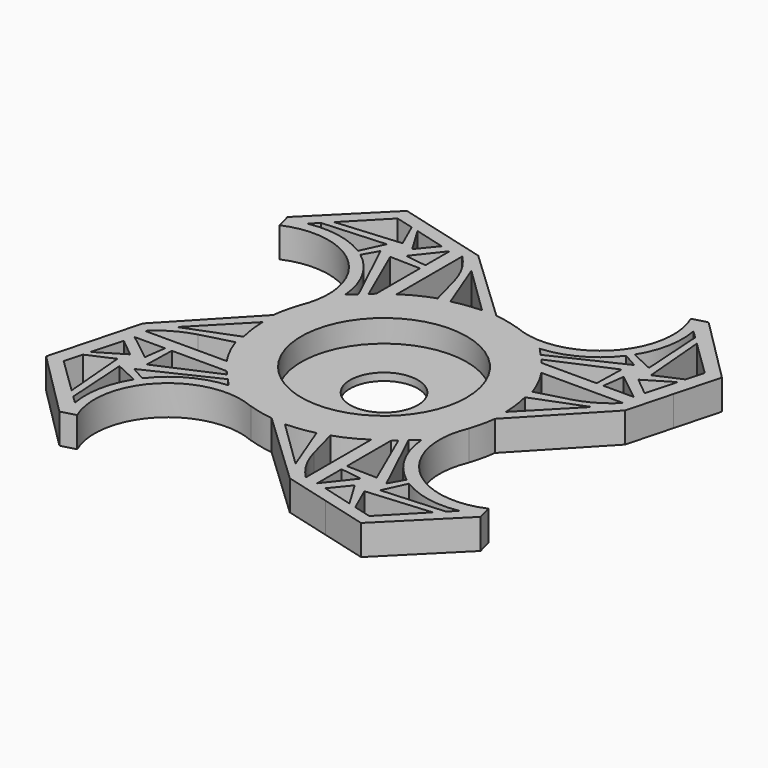
from build123d import *

# Parameters (mm, degrees)
F0_R      = 16.399283469
F1_DEPTH  = 4
F2_W      = 15.3047693893
F2_H      = 15.304771252
F2_W_2    = 15.304768458
F3_DEPTH  = 4
F4_D      = 19.5
F6_DEPTH  = 4.001
F9_R      = 11.0138884446
F10_DEPTH = 4
F12_DEPTH = 1
F11_R     = 4.5084402741
F13_DEPTH = 1


with BuildPart() as f1:
    # F0 (on Top) → F1 (new body)
    with BuildSketch(Plane.XY):
        Circle(F0_R)
    extrude(amount=F1_DEPTH)

    # F2 (on Top) → F3 (join)
    with BuildSketch(Plane.XY):
        with BuildLine():
            ThreePointArc((-19.6362166313, 6.381895291), (-14.0342818631, 6.3818949246), (-9.1828638688, 9.1828620061))
            Line((-9.1828638688, 9.1828620061), (-24.4876332581, 9.1828620061))
            ThreePointArc((-24.4876332581, 9.1828620061), (-22.246302031, 7.4630281695), (-19.6362166313, 6.381895291))
        make_face()
        with Locations((-16.8352485634, 16.8352476321)):
            Rectangle(F2_W, F2_H)
        with BuildLine():
            Line((-13.6009707699, 4.7647556427), (-9.1828638688, 9.1828620061))
            ThreePointArc((-9.1828638688, 9.1828620061), (-14.0342818631, 6.3818949246), (-19.6362166313, 6.381895291))
            Line((-19.6362166313, 6.381895291), (-13.6009707699, 4.7647556427))
        make_face()
        Polygon((-4.7647569677, 13.6009683695), (-9.1828638688, 9.1828620061), (-13.6009707699, 4.7647556427), (-13.6009707699, -4.7647556427), (-9.1828638688, -9.1828620061), (-4.7647569677, -13.6009683695), (4.7647560363, -13.6009681007), (9.1828629375, -9.1828620061), (13.6009698386, -4.7647559116), (13.6009698386, 4.7647559116), (9.1828629375, 9.1828620061), (4.7647560363, 13.6009681007), align=None)
        with BuildLine():
            ThreePointArc((-27.2886012692, 14.0342809252), (-26.207468049, 11.4241942043), (-24.4876332581, 9.1828620061))
            Line((-24.4876332581, 9.1828620061), (-24.4876332581, 24.4876332581))
            ThreePointArc((-24.4876332581, 24.4876332581), (-27.2886009182, 19.6362156491), (-27.2886012692, 14.0342809252))
        make_face()
        with BuildLine():
            ThreePointArc((-19.6362166313, 6.381895291), (-22.246302031, 7.4630281695), (-24.4876332581, 9.1828620061))
            ThreePointArc((-24.4876332581, 9.1828620061), (-26.207468049, 11.4241942043), (-27.2886012692, 14.0342809252))
            Line((-27.2886012692, 14.0342809252), (-25.6714623657, 7.9990349053))
            Line((-25.6714623657, 7.9990349053), (-19.6362166313, 6.381895291))
        make_face()
        with BuildLine():
            ThreePointArc((-14.0342803558, 27.2885999358), (-11.4241950332, 26.2074670585), (-9.1828638688, 24.4876332581))
            ThreePointArc((-9.1828638688, 24.4876332581), (-7.4630290902, 22.2463010813), (-6.3818958705, 19.6362143867))
            Line((-6.3818958705, 19.6362143867), (-7.9990347612, 25.6714603589))
            Line((-7.9990347612, 25.6714603589), (-14.0342803558, 27.2885999358))
        make_face()
        with BuildLine():
            Line((-24.4876332581, 24.4876332581), (-9.1828638688, 24.4876332581))
            ThreePointArc((-9.1828638688, 24.4876332581), (-11.4241950332, 26.2074670585), (-14.0342803558, 27.2885999358))
            ThreePointArc((-14.0342803558, 27.2885999358), (-19.6362151939, 27.2886003583), (-24.4876332581, 24.4876332581))
        make_face()
        Polygon((-6.3818958705, 19.6362143867), (-4.7647569677, 13.6009683695), (4.7647560363, 13.6009681007), (-7.9990347612, 25.6714603589), align=None)
        Polygon((-13.6009707699, -4.7647556427), (-13.6009707699, 4.7647556427), (-25.6714623657, -7.9990349053), (-19.6362163995, -6.3818952289), align=None)
        with BuildLine():
            Line((-20.069526357, 28.9057396215), (-24.4876332581, 24.4876332581))
            ThreePointArc((-24.4876332581, 24.4876332581), (-19.6362151939, 27.2886003583), (-14.0342803558, 27.2885999358))
            Line((-14.0342803558, 27.2885999358), (-20.069526357, 28.9057396215))
        make_face()
        with BuildLine():
            ThreePointArc((-27.2886012692, 14.0342809252), (-27.2886009182, 19.6362156491), (-24.4876332581, 24.4876332581))
            Line((-24.4876332581, 24.4876332581), (-28.9057401592, 20.0695268947))
            Line((-28.9057401592, 20.0695268947), (-27.2886012692, 14.0342809252))
        make_face()
        with BuildLine():
            Line((6.3818947404, 19.6362141105), (4.7647560363, 13.6009681007))
            Line((4.7647560363, 13.6009681007), (9.1828629375, 9.1828620061))
            ThreePointArc((9.1828629375, 9.1828620061), (6.3818951916, 14.0342794697), (6.3818947404, 19.6362141105))
        make_face()
        with BuildLine():
            Line((-19.6362163995, -6.3818952289), (-25.6714623657, -7.9990349053))
            Line((-25.6714623657, -7.9990349053), (-27.2886013071, -14.0342810666))
            ThreePointArc((-27.2886013071, -14.0342810666), (-26.2074680856, -11.4241942677), (-24.4876332581, -9.1828620061))
            ThreePointArc((-24.4876332581, -9.1828620061), (-22.2463019271, -7.4630281095), (-19.6362163995, -6.3818952289))
        make_face()
        with Locations((16.8352471665, 16.8352476321)):
            Rectangle(F2_W_2, F2_H)
        with BuildLine():
            ThreePointArc((6.3818947404, 19.6362141105), (6.3818951916, 14.0342794697), (9.1828629375, 9.1828620061))
            Line((9.1828629375, 9.1828620061), (9.1828629375, 24.4876332581))
            ThreePointArc((9.1828629375, 24.4876332581), (7.4630280113, 22.2463009736), (6.3818947404, 19.6362141105))
        make_face()
        with BuildLine():
            Line((7.9990333642, 25.6714598212), (6.3818947404, 19.6362141105))
            ThreePointArc((6.3818947404, 19.6362141105), (7.4630280113, 22.2463009736), (9.1828629375, 24.4876332581))
            ThreePointArc((9.1828629375, 24.4876332581), (11.4241937617, 26.2074667508), (14.0342786387, 27.2885995091))
            Line((14.0342786387, 27.2885995091), (7.9990333642, 25.6714598212))
        make_face()
        with BuildLine():
            ThreePointArc((-24.4876332581, -9.1828620061), (-26.2074680856, -11.4241942677), (-27.2886013071, -14.0342810666))
            ThreePointArc((-27.2886013071, -14.0342810666), (-27.2886008992, -19.6362157198), (-24.4876332581, -24.4876332581))
            Line((-24.4876332581, -24.4876332581), (-24.4876332581, -9.1828620061))
        make_face()
        with BuildLine():
            ThreePointArc((-24.4876332581, -24.4876332581), (-27.2886008992, -19.6362157198), (-27.2886013071, -14.0342810666))
            Line((-27.2886013071, -14.0342810666), (-28.9057401592, -20.0695268947))
            Line((-28.9057401592, -20.0695268947), (-24.4876332581, -24.4876332581))
        make_face()
        with Locations((-16.8352485634, -16.8352476321)):
            Rectangle(F2_W, F2_H)
        with BuildLine():
            ThreePointArc((-6.0131416852, -16.8352476321), (-6.836925646, -12.6938063223), (-9.1828638688, -9.1828620061))
            Line((-9.1828638688, -9.1828620061), (-9.1828638688, -24.4876332581))
            ThreePointArc((-9.1828638688, -24.4876332581), (-7.4630291005, -22.2463010991), (-6.3818958811, -19.6362144264))
            ThreePointArc((-6.3818958811, -19.6362144264), (-6.105726271, -18.2478157402), (-6.0131416852, -16.8352476321))
        make_face()
        with BuildLine():
            Line((-4.7647569677, -13.6009683695), (-9.1828638688, -9.1828620061))
            ThreePointArc((-9.1828638688, -9.1828620061), (-6.836925646, -12.6938063223), (-6.0131416852, -16.8352476321))
            ThreePointArc((-6.0131416852, -16.8352476321), (-6.105726271, -18.2478157402), (-6.3818958811, -19.6362144264))
            Line((-6.3818958811, -19.6362144264), (-4.7647569677, -13.6009683695))
        make_face()
        with BuildLine():
            ThreePointArc((27.2885996773, 14.0342814699), (26.2074664034, 11.4241944323), (24.4876313955, 9.1828620061))
            ThreePointArc((24.4876313955, 9.1828620061), (22.2463003661, 7.463028395), (19.6362152367, 6.3818956326))
            Line((19.6362152367, 6.3818956326), (25.6714609687, 7.999035443))
            Line((25.6714609687, 7.999035443), (27.2885996773, 14.0342814699))
        make_face()
        with BuildLine():
            Line((24.4876313955, 24.4876332581), (24.4876313955, 9.1828620061))
            ThreePointArc((24.4876313955, 9.1828620061), (26.2074664034, 11.4241944323), (27.2885996773, 14.0342814699))
            ThreePointArc((27.2885996773, 14.0342814699), (27.5647691694, 15.4226798477), (27.6573537154, 16.8352476321))
            ThreePointArc((27.6573537154, 16.8352476321), (26.8335697167, 20.976688968), (24.4876313955, 24.4876332581))
        make_face()
        with BuildLine():
            ThreePointArc((14.0342786387, 27.2885995091), (11.4241937617, 26.2074667508), (9.1828629375, 24.4876332581))
            Line((9.1828629375, 24.4876332581), (24.4876313955, 24.4876332581))
            ThreePointArc((24.4876313955, 24.4876332581), (19.63621335, 27.2886001372), (14.0342786387, 27.2885995091))
        make_face()
        Polygon((25.6714609687, 7.999035443), (19.6362152367, 6.3818956326), (13.6009698386, 4.7647559116), (13.6009698386, -4.7647559116), align=None)
        with BuildLine():
            Line((-9.1828638688, -24.4876332581), (-24.4876332581, -24.4876332581))
            ThreePointArc((-24.4876332581, -24.4876332581), (-19.6362150795, -27.288600389), (-14.0342801271, -27.2885998745))
            ThreePointArc((-14.0342801271, -27.2885998745), (-11.4241949306, -26.2074669993), (-9.1828638688, -24.4876332581))
        make_face()
        with BuildLine():
            ThreePointArc((-14.0342801271, -27.2885998745), (-19.6362150795, -27.288600389), (-24.4876332581, -24.4876332581))
            Line((-24.4876332581, -24.4876332581), (-20.069526357, -28.9057396215))
            Line((-20.069526357, -28.9057396215), (-14.0342801271, -27.2885998745))
        make_face()
        with BuildLine():
            ThreePointArc((-6.3818958811, -19.6362144264), (-7.4630291005, -22.2463010991), (-9.1828638688, -24.4876332581))
            ThreePointArc((-9.1828638688, -24.4876332581), (-11.4241949306, -26.2074669993), (-14.0342801271, -27.2885998745))
            Line((-14.0342801271, -27.2885998745), (-7.9990347612, -25.6714603589))
            Line((-7.9990347612, -25.6714603589), (-6.3818958811, -19.6362144264))
        make_face()
        Polygon((4.7647560363, -13.6009681007), (-4.7647569677, -13.6009683695), (7.9990333642, -25.6714598212), (6.3818946935, -19.6362139358), align=None)
        with BuildLine():
            Line((28.9057382966, 20.0695271635), (24.4876313955, 24.4876332581))
            ThreePointArc((24.4876313955, 24.4876332581), (26.8335697167, 20.976688968), (27.6573537154, 16.8352476321))
            ThreePointArc((27.6573537154, 16.8352476321), (27.5647691694, 15.4226798477), (27.2885996773, 14.0342814699))
            Line((27.2885996773, 14.0342814699), (28.9057382966, 20.0695271635))
        make_face()
        with BuildLine():
            ThreePointArc((14.0342786387, 27.2885995091), (19.63621335, 27.2886001372), (24.4876313955, 24.4876332581))
            Line((24.4876313955, 24.4876332581), (20.0695244944, 28.9057393527))
            Line((20.0695244944, 28.9057393527), (14.0342786387, 27.2885995091))
        make_face()
        with BuildLine():
            Line((19.6362152367, -6.3818956326), (13.6009698386, -4.7647559116))
            Line((13.6009698386, -4.7647559116), (9.1828629375, -9.1828620061))
            ThreePointArc((9.1828629375, -9.1828620061), (14.0342807542, -6.3818951883), (19.6362152367, -6.3818956326))
        make_face()
        with BuildLine():
            Line((6.3818946935, -19.6362139358), (7.9990333642, -25.6714598212))
            Line((7.9990333642, -25.6714598212), (14.0342790962, -27.2885996317))
            ThreePointArc((14.0342790962, -27.2885996317), (11.4241939668, -26.2074668692), (9.1828629375, -24.4876332581))
            ThreePointArc((9.1828629375, -24.4876332581), (7.4630279661, -22.2463008953), (6.3818946935, -19.6362139358))
        make_face()
        with BuildLine():
            ThreePointArc((19.6362152367, -6.3818956326), (14.0342807542, -6.3818951883), (9.1828629375, -9.1828620061))
            Line((9.1828629375, -9.1828620061), (24.4876313955, -9.1828620061))
            ThreePointArc((24.4876313955, -9.1828620061), (22.2463003661, -7.463028395), (19.6362152367, -6.3818956326))
        make_face()
        with Locations((16.8352471665, -16.8352476321)):
            Rectangle(F2_W_2, F2_H)
        with BuildLine():
            Line((25.6714609687, -7.999035443), (19.6362152367, -6.3818956326))
            ThreePointArc((19.6362152367, -6.3818956326), (22.2463003661, -7.463028395), (24.4876313955, -9.1828620061))
            ThreePointArc((24.4876313955, -9.1828620061), (26.2074664034, -11.4241944323), (27.2885996773, -14.0342814699))
            Line((27.2885996773, -14.0342814699), (25.6714609687, -7.999035443))
        make_face()
        with BuildLine():
            ThreePointArc((9.1828629375, -24.4876332581), (11.4241939668, -26.2074668692), (14.0342790962, -27.2885996317))
            ThreePointArc((14.0342790962, -27.2885996317), (19.6362135788, -27.2886000759), (24.4876313955, -24.4876332581))
            Line((24.4876313955, -24.4876332581), (9.1828629375, -24.4876332581))
        make_face()
        with BuildLine():
            ThreePointArc((24.4876313955, -24.4876332581), (19.6362135788, -27.2886000759), (14.0342790962, -27.2885996317))
            Line((14.0342790962, -27.2885996317), (20.0695244944, -28.9057393527))
            Line((20.0695244944, -28.9057393527), (24.4876313955, -24.4876332581))
        make_face()
        with BuildLine():
            ThreePointArc((27.2885996773, -14.0342814699), (26.2074664034, -11.4241944323), (24.4876313955, -9.1828620061))
            Line((24.4876313955, -9.1828620061), (24.4876313955, -24.4876332581))
            ThreePointArc((24.4876313955, -24.4876332581), (26.8335697167, -20.976688968), (27.6573537154, -16.8352476321))
            ThreePointArc((27.6573537154, -16.8352476321), (27.5647691694, -15.4226798477), (27.2885996773, -14.0342814699))
        make_face()
        with BuildLine():
            ThreePointArc((27.6573537154, -16.8352476321), (26.8335697167, -20.976688968), (24.4876313955, -24.4876332581))
            Line((24.4876313955, -24.4876332581), (28.9057382966, -20.0695271635))
            Line((28.9057382966, -20.0695271635), (27.2885996773, -14.0342814699))
            ThreePointArc((27.2885996773, -14.0342814699), (27.5647691694, -15.4226798477), (27.6573537154, -16.8352476321))
        make_face()
    extrude(amount=F3_DEPTH)

    # F4 (through all)
    with Locations(Plane(origin=(0, 0, 0), x_dir=(1, 0, 0), z_dir=(0, 0, -1))):
        with Locations((-24.4876332581, -9.1828620061), (9.1828629375, -24.4876332581), (24.4876313955, 9.1828620061), (-9.1828638688, 24.4876332581)):
            Hole(F4_D / 2)

    # F5 (on Top) → F6 (cut, through all)
    with BuildSketch(Plane.XY):
        Polygon((11.5123097439, -12.0014349417), (10.9312273562, -12.5328218564), (10.9312273562, -19.8281024684), (14.968722107, -19.9280130138), align=None)
        Polygon((12.287223826, -25.1323089496), (16.3936915258, -26.2429611564), (14.2729808678, -22.7072010552), align=None)
        Polygon((19.7606716386, -27.1536084976), (24.4011133909, -22.3856382072), (15.8775458316, -23.1088874469), (17.3781731543, -26.5092281219), align=None)
        with BuildLine():
            ThreePointArc((26.3470207068, -20.3862535009), (22.2495869645, -20.3775414684), (18.437449082, -18.8753284552))
            Line((18.437449082, -18.8753284552), (17.0276989331, -21.9201366221))
            Line((17.0276989331, -21.9201366221), (25.3664037597, -21.3938197456))
            Line((25.3664037597, -21.3938197456), (26.3470207068, -20.3862535009))
        make_face()
        with BuildLine():
            Line((13.3105022833, -10.3570278734), (12.287223826, -11.2927932551))
            Line((12.287223826, -11.2927932551), (16.5732870708, -20.3296994056))
            Line((16.5732870708, -20.3296994056), (17.6828293931, -18.3551617572))
            ThreePointArc((17.6828293931, -18.3551617572), (14.6328234475, -14.828330159), (13.3105022833, -10.3570278734))
        make_face()
        Polygon((13.8185690055, -21.1167638386), (10.9312273562, -20.7267403603), (10.9312273562, -24.7766375542), align=None)
        with BuildLine():
            Line((0, -16.4857320487), (6.4256140031, -22.7467752993))
            Line((6.4256140031, -22.7467752993), (3.8091344759, -15.9799829125))
            ThreePointArc((3.8091344759, -15.9799829125), (1.9192561742, -16.3434896684), (0, -16.4857320487))
        make_face()
        Polygon((11.7157033132, 11.5123097439), (12.2470902279, 10.9312273562), (19.5423708399, 10.9312273562), (19.6422813853, 14.968722107), align=None)
        Polygon((24.8465773211, 12.287223826), (25.9572295279, 16.3936915258), (22.4214694266, 14.2729808678), align=None)
        Polygon((26.867876869, 19.7606716386), (22.0999065787, 24.4011133909), (22.8231558183, 15.8775458316), (26.2234964933, 17.3781731543), align=None)
        with BuildLine():
            ThreePointArc((20.1005218724, 26.3470207068), (20.0918098398, 22.2495869645), (18.5895968266, 18.437449082))
            Line((18.5895968266, 18.437449082), (21.6344049935, 17.0276989331))
            Line((21.6344049935, 17.0276989331), (21.108088117, 25.3664037597))
            Line((21.108088117, 25.3664037597), (20.1005218724, 26.3470207068))
        make_face()
        with BuildLine():
            Line((10.0712962449, 13.3105022833), (11.0070616266, 12.287223826))
            Line((11.0070616266, 12.287223826), (20.043967777, 16.5732870708))
            Line((20.043967777, 16.5732870708), (18.0694301287, 17.6828293931))
            ThreePointArc((18.0694301287, 17.6828293931), (14.5425985305, 14.6328234475), (10.0712962449, 13.3105022833))
        make_face()
        Polygon((20.8310322101, 13.8185690055), (20.4410087317, 10.9312273562), (24.4909059256, 10.9312273562), align=None)
        with BuildLine():
            Line((16.2000004202, 0), (22.4610436708, 6.4256140031))
            Line((22.4610436708, 6.4256140031), (15.694251284, 3.8091344759))
            ThreePointArc((15.694251284, 3.8091344759), (16.0577580399, 1.9192561742), (16.2000004202, 0))
        make_face()
        Polygon((-11.5123097439, 11.8228575633), (-10.9312273562, 12.354244478), (-10.9312273562, 19.6495250901), (-14.968722107, 19.7494356354), align=None)
        Polygon((-12.287223826, 24.9537315712), (-16.3936915258, 26.064383778), (-14.2729808678, 22.5286236768), align=None)
        Polygon((-19.7606716386, 26.9750311192), (-24.4011133909, 22.2070608288), (-15.8775458316, 22.9303100685), (-17.3781731543, 26.3306507435), align=None)
        with BuildLine():
            ThreePointArc((-26.3470207068, 20.2076761225), (-22.2495869645, 20.19896409), (-18.437449082, 18.6967510768))
            Line((-18.437449082, 18.6967510768), (-17.0276989331, 21.7415592437))
            Line((-17.0276989331, 21.7415592437), (-25.3664037597, 21.2152423672))
            Line((-25.3664037597, 21.2152423672), (-26.3470207068, 20.2076761225))
        make_face()
        with BuildLine():
            Line((-13.3105022833, 10.178450495), (-12.287223826, 11.1142158767))
            Line((-12.287223826, 11.1142158767), (-16.5732870708, 20.1511220272))
            Line((-16.5732870708, 20.1511220272), (-17.6828293931, 18.1765843788))
            ThreePointArc((-17.6828293931, 18.1765843788), (-14.6328234475, 14.6497527806), (-13.3105022833, 10.178450495))
        make_face()
        Polygon((-13.8185690055, 20.9381864603), (-10.9312273562, 20.5481629819), (-10.9312273562, 24.5980601758), align=None)
        with BuildLine():
            Line((0, 16.3071546704), (-6.4256140031, 22.5681979209))
            Line((-6.4256140031, 22.5681979209), (-3.8091344759, 15.8014055341))
            ThreePointArc((-3.8091344759, 15.8014055341), (-1.9192561742, 16.16491229), (0, 16.3071546704))
        make_face()
        Polygon((-11.6595799522, -11.5123097439), (-12.1909668669, -10.9312273562), (-19.4862474789, -10.9312273562), (-19.5861580243, -14.968722107), align=None)
        Polygon((-24.7904539601, -12.287223826), (-25.9011061669, -16.3936915258), (-22.3653460656, -14.2729808678), align=None)
        Polygon((-26.8117535081, -19.7606716386), (-22.0437832177, -24.4011133909), (-22.7670324574, -15.8775458316), (-26.1673731323, -17.3781731543), align=None)
        with BuildLine():
            ThreePointArc((-20.0443985114, -26.3470207068), (-20.0356864788, -22.2495869645), (-18.5334734656, -18.437449082))
            Line((-18.5334734656, -18.437449082), (-21.5782816325, -17.0276989331))
            Line((-21.5782816325, -17.0276989331), (-21.051964756, -25.3664037597))
            Line((-21.051964756, -25.3664037597), (-20.0443985114, -26.3470207068))
        make_face()
        with BuildLine():
            Line((-10.0151728839, -13.3105022833), (-10.9509382656, -12.287223826))
            Line((-10.9509382656, -12.287223826), (-19.987844416, -16.5732870708))
            Line((-19.987844416, -16.5732870708), (-18.0133067677, -17.6828293931))
            ThreePointArc((-18.0133067677, -17.6828293931), (-14.4864751695, -14.6328234475), (-10.0151728839, -13.3105022833))
        make_face()
        Polygon((-20.7749088491, -13.8185690055), (-20.3848853707, -10.9312273562), (-24.4347825646, -10.9312273562), align=None)
        with BuildLine():
            Line((-16.1438770592, 0), (-22.4049203098, -6.4256140031))
            Line((-22.4049203098, -6.4256140031), (-15.638127923, -3.8091344759))
            ThreePointArc((-15.638127923, -3.8091344759), (-16.0016346789, -1.9192561742), (-16.1438770592, 0))
        make_face()
    extrude(amount=F6_DEPTH, mode=Mode.SUBTRACT)


with BuildPart() as f7_1:
    # F7: copy of F1
    add(f1.part.moved(Location((0, 0, 4))))


with BuildPart() as f1_1:
    add(f1.part)

    # F9 (on Top) → F10 (cut)
    with BuildSketch(Plane.XY):
        Circle(F9_R)
    extrude(amount=F10_DEPTH, mode=Mode.SUBTRACT)

    # F9 (on Top) → F12 (join)
    with BuildSketch(Plane.XY):
        Circle(F9_R)
    extrude(amount=F12_DEPTH)

    # F11 (on Top) → F13 (cut)
    with BuildSketch(Plane.XY):
        Circle(F11_R)
    extrude(amount=F13_DEPTH, mode=Mode.SUBTRACT)


solid = f1_1.part
